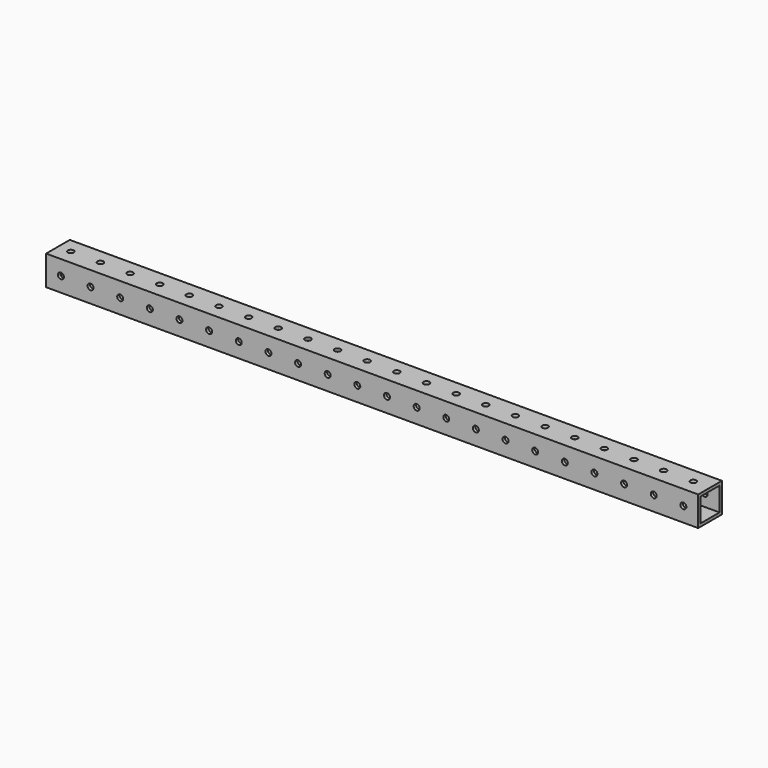
from build123d import *

# Parameters (mm, degrees)
F0_W     = 558.8
F0_H     = 25.4
F0_R     = 2.5527
F1_DEPTH = 25.4
F2_W     = 20.32
F2_H     = 20.32
F3_DEPTH = 508
F5_D     = 5.1054
F6_W     = 20.32
F6_H     = 20.32
F7_DEPTH = 558.8


with BuildPart() as f1:
    # F0 (on Top) → F1 (new body)
    with BuildSketch(Plane.XY):
        with Locations((30.061689, 0)):
            Rectangle(F0_W, F0_H)
        with Locations((-238.314838, 0)):
            Circle(F0_R, mode=Mode.SUBTRACT)
        with Locations((-212.914838, 0)):
            Circle(F0_R, mode=Mode.SUBTRACT)
        with Locations((-187.514838, 0)):
            Circle(F0_R, mode=Mode.SUBTRACT)
        with Locations((-162.114838, 0)):
            Circle(F0_R, mode=Mode.SUBTRACT)
        with Locations((-136.714838, 0)):
            Circle(F0_R, mode=Mode.SUBTRACT)
        with Locations((-111.314838, 0)):
            Circle(F0_R, mode=Mode.SUBTRACT)
        with Locations((-85.914838, 0)):
            Circle(F0_R, mode=Mode.SUBTRACT)
        with Locations((-60.514838, 0)):
            Circle(F0_R, mode=Mode.SUBTRACT)
        with Locations((-35.114838, 0)):
            Circle(F0_R, mode=Mode.SUBTRACT)
        with Locations((-9.714838, 0)):
            Circle(F0_R, mode=Mode.SUBTRACT)
        with Locations((15.685162, 0)):
            Circle(F0_R, mode=Mode.SUBTRACT)
        with Locations((41.085162, 0)):
            Circle(F0_R, mode=Mode.SUBTRACT)
        with Locations((66.485162, 0)):
            Circle(F0_R, mode=Mode.SUBTRACT)
        with Locations((91.885162, 0)):
            Circle(F0_R, mode=Mode.SUBTRACT)
        with Locations((117.285162, 0)):
            Circle(F0_R, mode=Mode.SUBTRACT)
        with Locations((142.685162, 0)):
            Circle(F0_R, mode=Mode.SUBTRACT)
        with Locations((168.085162, 0)):
            Circle(F0_R, mode=Mode.SUBTRACT)
        with Locations((193.485162, 0)):
            Circle(F0_R, mode=Mode.SUBTRACT)
        with Locations((218.885162, 0)):
            Circle(F0_R, mode=Mode.SUBTRACT)
        with Locations((244.285162, 0)):
            Circle(F0_R, mode=Mode.SUBTRACT)
        with Locations((269.685162, 0)):
            Circle(F0_R, mode=Mode.SUBTRACT)
        with Locations((295.085162, 0)):
            Circle(F0_R, mode=Mode.SUBTRACT)
    extrude(amount=F1_DEPTH)

    # F2 (on face) → F3 (cut)
    with BuildSketch(Plane(origin=(-249.338311, 0, 0), x_dir=(0, -1, 0), z_dir=(-1, 0, 0))):
        with Locations((0, 12.7)):
            Rectangle(F2_W, F2_H)
    extrude(amount=-F3_DEPTH, mode=Mode.SUBTRACT)

    # F5 (through all)
    with Locations(Plane.XZ.offset(12.7)):
        with Locations((118.961689, 12.7), (220.561689, 12.7), (42.761689, 12.7), (169.761689, 12.7), (271.361689, 12.7), (-33.438311, 12.7), (195.161689, 12.7), (245.961689, 12.7), (-58.838311, 12.7), (-84.238311, 12.7), (-185.838311, 12.7), (-236.638311, 12.7), (17.361689, 12.7), (-8.038311, 12.7), (296.761689, 12.7), (68.161689, 12.7), (93.561689, 12.7), (144.361689, 12.7), (-211.238311, 12.7), (-109.638311, 12.7), (-135.038311, 12.7), (-160.438311, 12.7)):
            Hole(F5_D / 2)

    # F6 (on face) → F7 (cut)
    with BuildSketch(Plane.YZ.offset(309.461689)):
        with Locations((0, 12.7)):
            Rectangle(F6_W, F6_H)
    extrude(amount=-F7_DEPTH, mode=Mode.SUBTRACT)


solid = f1.part
